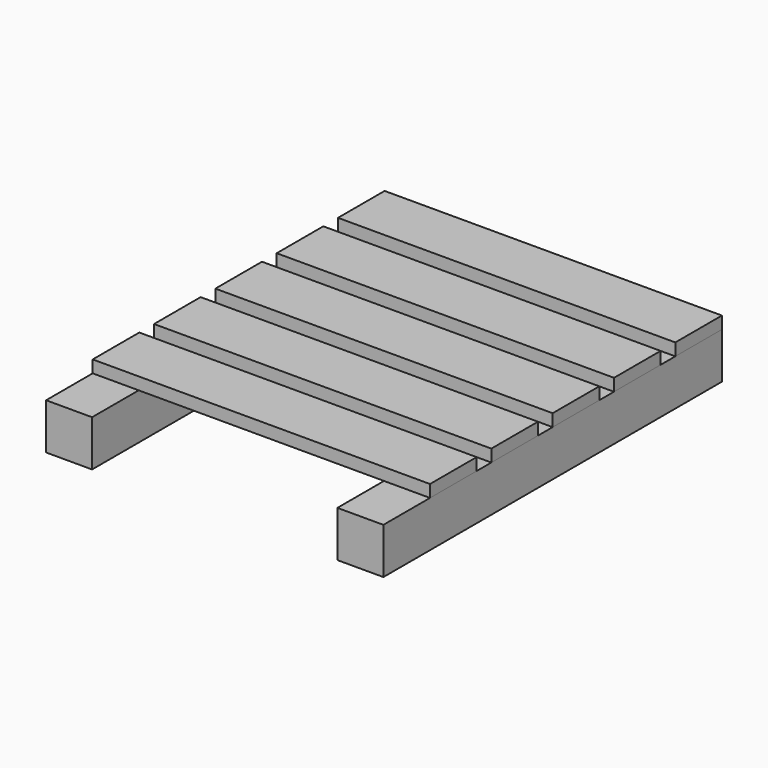
from build123d import *

# Parameters (mm, degrees)
F0_W     = 550
F0_H     = 95
F1_DEPTH = 20
F2_W     = 75
F2_H     = 690
F3_DEPTH = 75


with BuildPart() as f1:
    # F0 (on Top) → F1 (new body)
    with BuildSketch(Plane.XY):
        with Locations((0, 252.5)):
            Rectangle(F0_W, F0_H)
        with Locations((0, 127.5)):
            Rectangle(F0_W, F0_H)
        with Locations((0, 2.5)):
            Rectangle(F0_W, F0_H)
        with Locations((0, -122.5)):
            Rectangle(F0_W, F0_H)
        with Locations((0, -247.5)):
            Rectangle(F0_W, F0_H)
    extrude(amount=F1_DEPTH)


with BuildPart() as f3:
    # F2 (on Top) → F3 (new body)
    with BuildSketch(Plane.XY):
        with Locations((237.5, -45)):
            Rectangle(F2_W, F2_H)
        with Locations((-237.5, -45)):
            Rectangle(F2_W, F2_H)
    extrude(amount=-F3_DEPTH)


solid = Compound([f1.part, f3.part])
